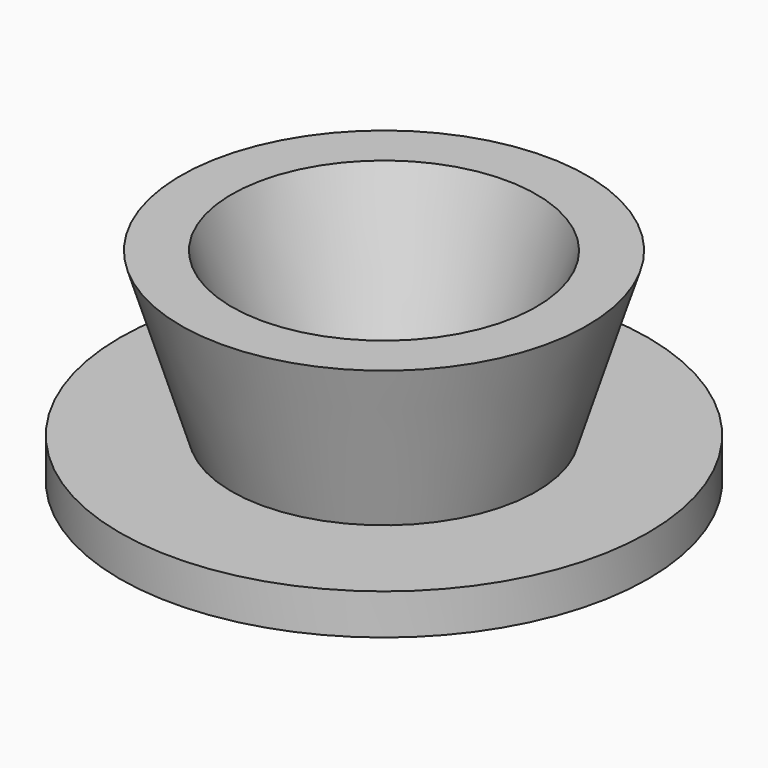
from build123d import *

# Parameters (mm, degrees)
F0_R     = 16.51
F0_R_2   = 9.525
F0_R_3   = 6.35
F2_DEPTH = 2.54


with BuildPart() as f2:
    # F0 (on Top) → F2 (new body)
    with BuildSketch(Plane.XY):
        Circle(F0_R)
        Circle(F0_R_2, mode=Mode.SUBTRACT)
        Circle(F0_R_2)
        Circle(F0_R_3, mode=Mode.SUBTRACT)
    extrude(amount=F2_DEPTH)


with BuildPart() as f3:
    # F1 (on Right) → F3 (revolve)
    with BuildSketch(Plane.YZ):
        Polygon((-9.525, 2.54), (-6.35, 2.54), (-9.525, 12.7), (-12.7, 12.7), align=None)
    revolve(axis=Axis((0, 0, 1.27), (0, 0, 1)))


solid = Compound([f2.part, f3.part])
